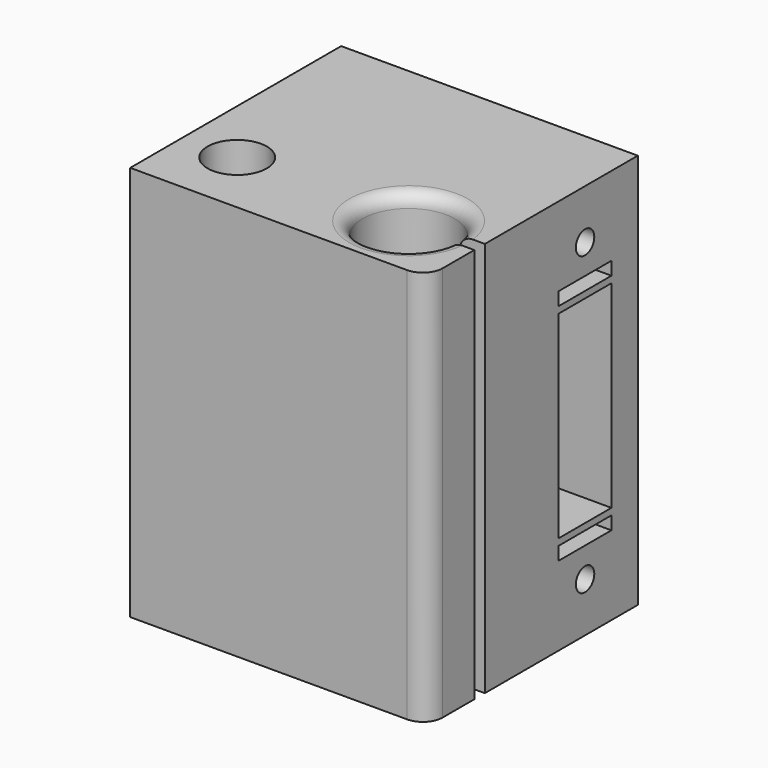
from build123d import *

# Parameters (mm, degrees)
SKETCH051_W       = 45
SKETCH051_H       = 20
SKETCH051_R       = 4.5
SKETCH051_R_2     = 7
PAD029_DEPTH      = 60
SKETCH052_W       = 4
SKETCH052_H       = 2
POCKET025_DEPTH   = 60.001
POCKET025_FACE1_W = 45
POCKET025_FACE1_H = 60
PAD030_DEPTH      = 20
FILLET001_R       = 3
FILLET002_R       = 2
FILLET003_R       = 2
SKETCH054_R       = 4
POCKET026_DEPTH   = 20
SKETCH053_R       = 1.75
SKETCH053_W       = 10
SKETCH053_H       = 30
SKETCH053_H_2     = 2
POCKET027_DEPTH   = 45.001


with BuildPart() as part:
    # Sketch051 → Pad029 (new body)
    with BuildSketch(Plane.XY):
        Rectangle(SKETCH051_W, SKETCH051_H)
        with Locations((-14.26955, 0)):
            Circle(SKETCH051_R, mode=Mode.SUBTRACT)
        with Locations((11.73045, 0)):
            Circle(SKETCH051_R_2, mode=Mode.SUBTRACT)
    extrude(amount=PAD029_DEPTH)

    # Sketch052 (on Face8 of Pad029) → Pocket025 (cut, through all)
    with BuildSketch(Plane.XY.offset(60)):
        with Locations((20.51, 0)):
            Rectangle(SKETCH052_W, SKETCH052_H)
    extrude(amount=-POCKET025_DEPTH, mode=Mode.SUBTRACT)

    # Pocket025 Face1 → Pad030 (add)
    with BuildSketch(Plane(origin=(0, 10, 30), x_dir=(1, 0, 0), z_dir=(0, 1, 0))):
        Rectangle(POCKET025_FACE1_W, POCKET025_FACE1_H)
    extrude(amount=PAD030_DEPTH)

    # Fillet001
    fillet001_edges = [part.edges().sort_by_distance(p)[0] for p in [
        (22.5, -10, 30),
    ]]
    fillet(fillet001_edges, radius=FILLET001_R)

    # Fillet002
    fillet002_edges = [part.edges().sort_by_distance(p)[0] for p in [
        (4.73045, 0, 60),
    ]]
    fillet(fillet002_edges, radius=FILLET002_R)

    # Fillet003
    fillet003_edges = [part.edges().sort_by_distance(p)[0] for p in [
        (4.73045, 0, 0),
    ]]
    fillet(fillet003_edges, radius=FILLET003_R)

    # Sketch054 (on Face3 of Pad030) → Pocket026 (cut)
    with BuildSketch(Plane(origin=(-22.5, 0, 0), x_dir=(0, -1, 0), z_dir=(-1, 0, 0))):
        with Locations((-20, 52.5)):
            Circle(SKETCH054_R)
        with Locations((-20, 7.5)):
            Circle(SKETCH054_R)
    extrude(amount=-POCKET026_DEPTH, mode=Mode.SUBTRACT)

    # Sketch053 (on Face15 of Pad030) → Pocket027 (cut, through all)
    with BuildSketch(Plane.YZ.offset(22.5)):
        with Locations((20, 52.5)):
            Circle(SKETCH053_R)
        with Locations((20, 7.5)):
            Circle(SKETCH053_R)
        with Locations((20, 30)):
            Rectangle(SKETCH053_W, SKETCH053_H)
        with Locations((20, 47)):
            Rectangle(SKETCH053_W, SKETCH053_H_2)
        with Locations((20, 13)):
            Rectangle(SKETCH053_W, SKETCH053_H_2)
    extrude(amount=-POCKET027_DEPTH, mode=Mode.SUBTRACT)


solid = part.part
